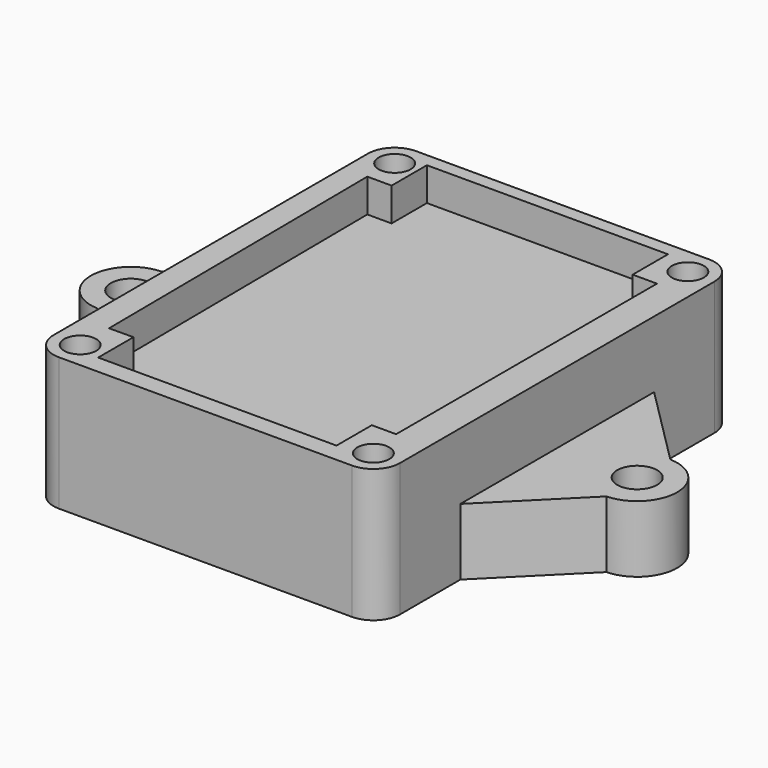
from build123d import *

# Parameters (mm, degrees)
F0_R     = 1.5
F1_DEPTH = 5
F0_R_2   = 1.2
F2_DEPTH = 10
F3_DEPTH = 7.5
F4_DEPTH = 2


with BuildPart() as f1:
    # F0 (on Top) → F1 (new body)
    with BuildSketch(Plane.XY):
        with BuildLine():
            Line((-12.148649, -14.333534), (-12.148649, 3.838508))
            Line((-12.148649, 3.838508), (-18.23594, -2.248783))
            ThreePointArc((-18.23594, -2.248783), (-21.148649, -5.247513), (-18.23594, -8.246243))
            Line((-18.23594, -8.246243), (-12.148649, -14.333534))
        make_face()
        with Locations((-18.148649, -5.247513)):
            Circle(F0_R, mode=Mode.SUBTRACT)
        with BuildLine():
            Line((19.938642, -2.248783), (13.851351, 3.838508))
            Line((13.851351, 3.838508), (13.851351, -14.333534))
            Line((13.851351, -14.333534), (19.938642, -8.246243))
            ThreePointArc((19.938642, -8.246243), (22.851351, -5.247513), (19.938642, -2.248783))
        make_face()
        with Locations((19.851351, -5.247513)):
            Circle(F0_R, mode=Mode.SUBTRACT)
    extrude(amount=F1_DEPTH)


with BuildPart() as f2:
    # F0 (on Top) → F2 (new body)
    with BuildSketch(Plane.XY):
        with BuildLine():
            Line((11.851351, 11.502487), (-10.148649, 11.502487))
            ThreePointArc((-10.148649, 11.502487), (-11.562863, 10.916701), (-12.148649, 9.502487))
            Line((-12.148649, 9.502487), (-12.148649, 3.838508))
            Line((-12.148649, 3.838508), (-12.148649, -14.333534))
            Line((-12.148649, -14.333534), (-12.148649, -19.997513))
            ThreePointArc((-12.148649, -19.997513), (-11.562863, -21.411727), (-10.148649, -21.997513))
            Line((-10.148649, -21.997513), (11.851351, -21.997513))
            ThreePointArc((11.851351, -21.997513), (13.265564, -21.411727), (13.851351, -19.997513))
            Line((13.851351, -19.997513), (13.851351, -14.333534))
            Line((13.851351, -14.333534), (13.851351, 3.838508))
            Line((13.851351, 3.838508), (13.851351, 9.502487))
            ThreePointArc((13.851351, 9.502487), (13.265564, 10.916701), (11.851351, 11.502487))
        make_face()
        with Locations((-10.148649, -19.997513)):
            Circle(F0_R_2, mode=Mode.SUBTRACT)
        with Locations((11.851351, -19.997513)):
            Circle(F0_R_2, mode=Mode.SUBTRACT)
        Polygon((-8.529758, 7.190368), (-8.529758, 10.502487), (9.560315, 10.502487), (9.560315, 7.190368), (11.384301, 7.190368), (11.384301, -17.2767), (9.560315, -17.2767), (9.560315, -20.588819), (-8.324727, -20.588819), (-8.324727, -17.2767), (-10.148649, -17.29198), (-10.353744, 7.190368), align=None, mode=Mode.SUBTRACT)
        with Locations((-10.148649, 9.502487)):
            Circle(F0_R_2, mode=Mode.SUBTRACT)
        with Locations((11.851351, 9.502487)):
            Circle(F0_R_2, mode=Mode.SUBTRACT)
    extrude(amount=F2_DEPTH)

    # F0 (on Top) → F3 (join)
    with BuildSketch(Plane.XY):
        Polygon((9.560315, 10.502487), (-8.529758, 10.502487), (-8.529758, 7.190368), (-10.353744, 7.190368), (-10.148649, -17.29198), (-8.324727, -17.2767), (-8.324727, -20.588819), (9.560315, -20.588819), (9.560315, -17.2767), (11.384301, -17.2767), (11.384301, 7.190368), (9.560315, 7.190368), align=None)
    extrude(amount=F3_DEPTH)

    # F0 (on Top) → F4 (join)
    with BuildSketch(Plane.XY):
        with Locations((-10.148649, 9.502487)):
            Circle(F0_R_2)
        with Locations((11.851351, 9.502487)):
            Circle(F0_R_2)
        with Locations((11.851351, -19.997513)):
            Circle(F0_R_2)
        with Locations((-10.148649, -19.997513)):
            Circle(F0_R_2)
    extrude(amount=F4_DEPTH)


solid = Compound([f1.part, f2.part])
